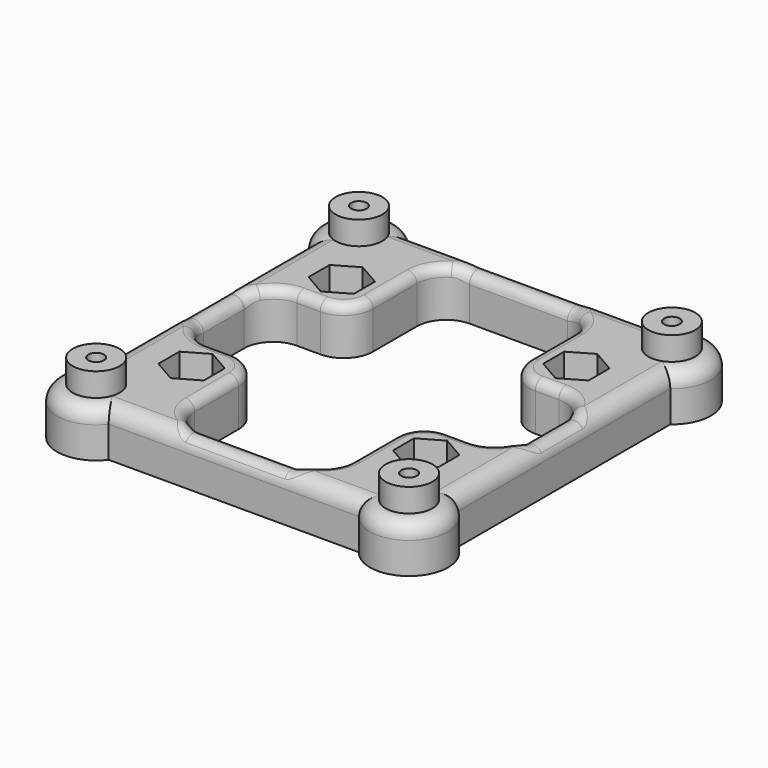
from build123d import *

# Parameters (mm, degrees)
SKETCH_R        = 1.25
SKETCH_R_2      = 1.75
PAD_DEPTH       = 6
POCKET_DEPTH    = 4
POCKET001_DEPTH = 4
POCKET002_DEPTH = 6.001
SKETCH004_R     = 3
SKETCH004_R_2   = 1
PAD001_DEPTH    = 3
FILLET_R        = 1.99
FILLET001_R     = 1.2


with BuildPart() as part:
    # Sketch → Pad (new body)
    with BuildSketch(Plane.XY):
        with BuildLine():
            Line((-16, 24), (16, 24))
            ThreePointArc((23, 17), (23.535534, 24.535534), (16, 24))
            Line((23, 17), (23, -17))
            ThreePointArc((16, -24), (23.535534, -24.535534), (23, -17))
            Line((-16, -24), (16, -24))
            ThreePointArc((-23, -17), (-23.535534, -24.535534), (-16, -24))
            Line((-23, -17), (-23, 17))
            ThreePointArc((-16, 24), (-23.535534, 24.535534), (-23, 17))
        make_face()
        with Locations((-20, 21)):
            Circle(SKETCH_R, mode=Mode.SUBTRACT)
        with Locations((-20, -21)):
            Circle(SKETCH_R, mode=Mode.SUBTRACT)
        with Locations((20, -21)):
            Circle(SKETCH_R, mode=Mode.SUBTRACT)
        with Locations((20, 21)):
            Circle(SKETCH_R, mode=Mode.SUBTRACT)
        with Locations((-15, 12)):
            Circle(SKETCH_R_2, mode=Mode.SUBTRACT)
        with Locations((-15, -12)):
            Circle(SKETCH_R_2, mode=Mode.SUBTRACT)
        with Locations((15, 12)):
            Circle(SKETCH_R_2, mode=Mode.SUBTRACT)
        with Locations((15, -12)):
            Circle(SKETCH_R_2, mode=Mode.SUBTRACT)
    extrude(amount=PAD_DEPTH)

    # Sketch001 (on Face18 of Pad) → Pocket (cut)
    with BuildSketch(Plane.XY.offset(6)):
        Polygon((-12.1, 13.674316), (-15, 15.348632), (-17.9, 13.674316), (-17.9, 10.325684), (-15, 8.651368), (-12.1, 10.325684), align=None)
        Polygon((17.9, 13.674316), (15, 15.348632), (12.1, 13.674316), (12.1, 10.325684), (15, 8.651368), (17.9, 10.325684), align=None)
        Polygon((-12.1, -10.325684), (-15, -8.651368), (-17.9, -10.325684), (-17.9, -13.674316), (-15, -15.348632), (-12.1, -13.674316), align=None)
        Polygon((17.9, -10.325684), (15, -8.651368), (12.1, -10.325684), (12.1, -13.674316), (15, -15.348632), (17.9, -13.674316), align=None)
    extrude(amount=-POCKET_DEPTH, mode=Mode.SUBTRACT)

    # Sketch002 (on Face4 of Pocket) → Pocket001 (cut)
    with BuildSketch(Plane(origin=(0, 0, 0), x_dir=(1, 0, 0), z_dir=(0, 0, -1))):
        Polygon((-22.9, 19.325684), (-20, 17.651368), (-17.1, 19.325684), (-17.1, 22.674316), (-20, 24.348632), (-22.9, 22.674316), align=None)
        Polygon((20, 17.651368), (22.9, 19.325684), (22.9, 22.674316), (20, 24.348632), (17.1, 22.674316), (17.1, 19.325684), align=None)
        Polygon((20, -24.348632), (22.9, -22.674316), (22.9, -19.325684), (20, -17.651368), (17.1, -19.325684), (17.1, -22.674316), align=None)
        Polygon((-20, -24.348632), (-17.1, -22.674316), (-17.1, -19.325684), (-20, -17.651368), (-22.9, -19.325684), (-22.9, -22.674316), align=None)
    extrude(amount=-POCKET001_DEPTH, mode=Mode.SUBTRACT)

    # Sketch003 (on Face5 of Pocket001) → Pocket002 (cut, through all)
    with BuildSketch(Plane.XY.offset(6)):
        with BuildLine():
            Line((-16.75, 7), (-13.75, 7))
            ThreePointArc((-13.75, 7), (-11.09835, 8.09835), (-10, 10.75))
            Line((-10, 10.75), (-10, 17.75))
            ThreePointArc((-6.25, 21.5), (-8.90165, 20.40165), (-10, 17.75))
            Line((-6.25, 21.5), (6.25, 21.5))
            ThreePointArc((10, 17.75), (8.90165, 20.40165), (6.25, 21.5))
            Line((10, 17.75), (10, 10.75))
            ThreePointArc((10, 10.75), (11.09835, 8.09835), (13.75, 7))
            Line((13.75, 7), (16.75, 7))
            ThreePointArc((20.5, 3.25), (19.40165, 5.90165), (16.75, 7))
            Line((20.5, 3.25), (20.5, -3.25))
            ThreePointArc((16.75, -7), (19.40165, -5.90165), (20.5, -3.25))
            Line((16.75, -7), (13.75, -7))
            ThreePointArc((13.75, -7), (11.09835, -8.09835), (10, -10.75))
            Line((10, -10.75), (10, -17.75))
            ThreePointArc((6.25, -21.5), (8.90165, -20.40165), (10, -17.75))
            Line((6.25, -21.5), (-6.25, -21.5))
            ThreePointArc((-10, -17.75), (-8.90165, -20.40165), (-6.25, -21.5))
            Line((-10, -17.75), (-10, -10.75))
            ThreePointArc((-10, -10.75), (-11.09835, -8.09835), (-13.75, -7))
            Line((-13.75, -7), (-16.75, -7))
            ThreePointArc((-20.5, -3.25), (-19.40165, -5.90165), (-16.75, -7))
            Line((-20.5, -3.25), (-20.5, 3.25))
            ThreePointArc((-16.75, 7), (-19.40165, 5.90165), (-20.5, 3.25))
        make_face()
    extrude(amount=-POCKET002_DEPTH, mode=Mode.SUBTRACT)

    # Sketch004 (on Face5 of Pocket002) → Pad001 (join)
    with BuildSketch(Plane.XY.offset(6)):
        with Locations((-20, 21)):
            Circle(SKETCH004_R)
        with Locations((-20, 21)):
            Circle(SKETCH004_R_2, mode=Mode.SUBTRACT)
        with Locations((-20, -21)):
            Circle(SKETCH004_R)
        with Locations((-20, -21)):
            Circle(SKETCH004_R_2, mode=Mode.SUBTRACT)
        with Locations((20, -21)):
            Circle(SKETCH004_R)
        with Locations((20, -21)):
            Circle(SKETCH004_R_2, mode=Mode.SUBTRACT)
        with Locations((20, 21)):
            Circle(SKETCH004_R)
        with Locations((20, 21)):
            Circle(SKETCH004_R_2, mode=Mode.SUBTRACT)
    extrude(amount=PAD001_DEPTH)

    # Fillet
    fillet_edges = [part.edges().sort_by_distance(p)[0] for p in [
        (-23, 0, 6),
        (-23.535534, -24.535534, 6),
        (0, -24, 6),
        (23.535534, -24.535534, 6),
        (23, 0, 6),
        (23.535534, 24.535534, 6),
        (0, 24, 6),
        (-23.535534, 24.535534, 6),
    ]]
    fillet(fillet_edges, radius=FILLET_R)

    # Fillet001
    fillet001_edges = [part.edges().sort_by_distance(p)[0] for p in [
        (-11.09835, -8.09835, 6),
    ]]
    fillet(fillet001_edges, radius=FILLET001_R)


solid = part.part
